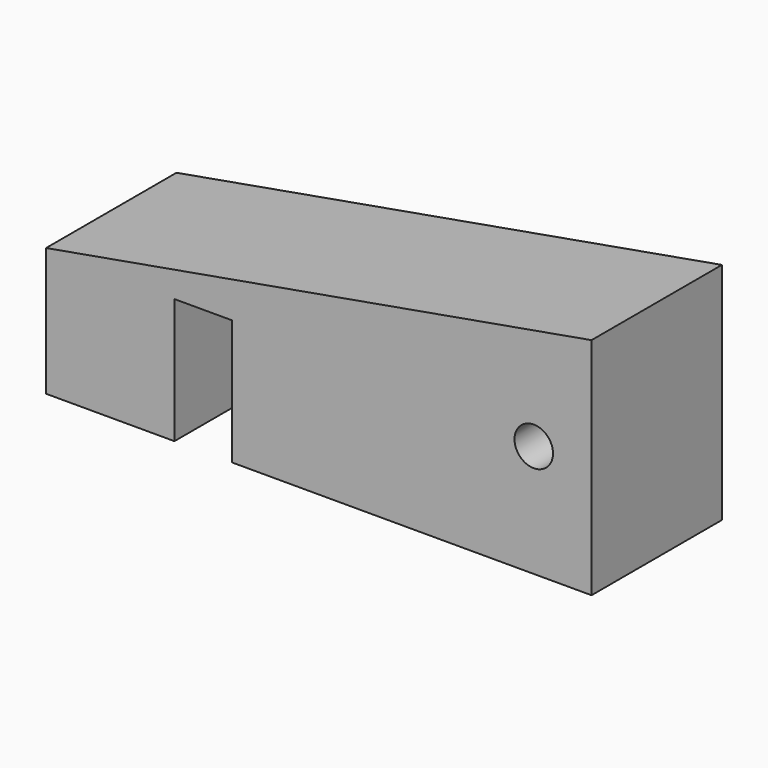
from build123d import *

# Parameters (mm, degrees)
F2_DEPTH = 2540
F1_W     = 900
F1_H     = 1950
F3_DEPTH = 2540.001
F4_R     = 300
F5_DEPTH = 2540.001


with BuildPart() as f2:
    # F0 (on Front) → F2 (new body)
    with BuildSketch(Plane.XZ):
        Polygon((-8500, 0), (0, 0), (0, 3500), (-8500, 2000), align=None)
    extrude(amount=F2_DEPTH)

    # F1 (on face) → F3 (cut, through all)
    with BuildSketch(Plane.XZ):
        with Locations((-6050, 975)):
            Rectangle(F1_W, F1_H)
    extrude(amount=F3_DEPTH, mode=Mode.SUBTRACT)

    # F4 (on face) → F5 (cut, through all)
    with BuildSketch(Plane.XZ.offset(2540)):
        with Locations((-900, 1750)):
            Circle(F4_R)
    extrude(amount=-F5_DEPTH, mode=Mode.SUBTRACT)


solid = f2.part
